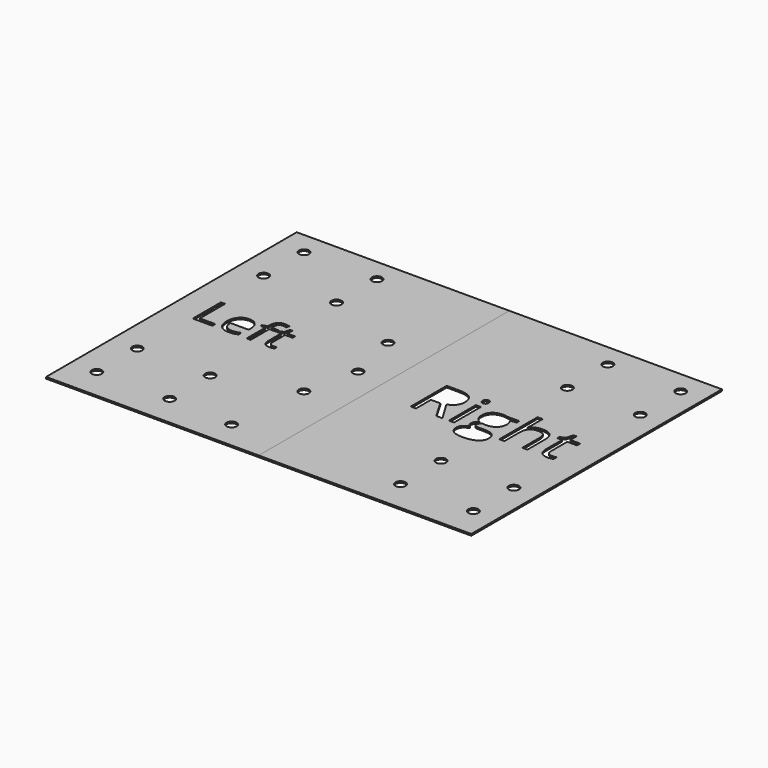
from build123d import *

# Parameters (mm, degrees)
F0_W     = 105
F0_H     = 154.7203554586
F0_R     = 2.5
F1_DEPTH = 0.8
F0_W_2   = 2.5208623119
F0_H_2   = 16.6357483977
F2_DEPTH = 0.8


with BuildPart() as f1:
    # F0 (on Top) → F1 (new body)
    with BuildSketch(Plane.XY):
        with Locations((36.2923571467, 88.2745388337)):
            Rectangle(F0_W, F0_H)
        with Locations((-3.5197703838, 26.3553077579)):
            Circle(F0_R, mode=Mode.SUBTRACT)
        with Locations((32.4802296162, 26.3553077579)):
            Circle(F0_R, mode=Mode.SUBTRACT)
        with Locations((64.4802296162, 24.5906881113)):
            Circle(F0_R, mode=Mode.SUBTRACT)
        with Locations((-3.5197703838, 51.3554970347)):
            Circle(F0_R, mode=Mode.SUBTRACT)
        with Locations((32.4802296162, 51.3554970347)):
            Circle(F0_R, mode=Mode.SUBTRACT)
        Polygon((7.2379707886, 84.2971429229), (-2.4455170755, 84.2971429229), (-2.4455170755, 101.6681111408), (-0.4266980508, 101.6681111408), (-0.4266980508, 86.1258659942), (7.2379707886, 86.1258659942), align=None, mode=Mode.SUBTRACT)
        with BuildLine():
            add(Edge.make_bspline(
                [(17.6400213564, 84.2553218131), (16.7085511849, 84.0576220216), (15.3892852686, 84.0576220216)],
                knots=[0, 0, 0, 1, 1, 1], degree=2))
            add(Edge.make_bspline(
                [(15.3892852686, 84.0576220216), (12.5036286966, 84.0576220216), (10.8326852666, 85.8179105497)],
                knots=[0, 0, 0, 1, 1, 1], degree=2))
            add(Edge.make_bspline(
                [(10.8326852666, 85.8179105497), (9.1617418366, 87.5781990779), (9.1617418366, 90.699574632)],
                knots=[0, 0, 0, 1, 1, 1], degree=2))
            add(Edge.make_bspline(
                [(9.1617418366, 90.699574632), (9.1617418366, 93.8513655387), (10.712924816, 95.7048010839)],
                knots=[0, 0, 0, 1, 1, 1], degree=2))
            add(Edge.make_bspline(
                [(10.712924816, 95.7048010839), (12.2641077954, 97.5582366292), (14.8798281136, 97.5582366292)],
                knots=[0, 0, 0, 1, 1, 1], degree=2))
            add(Edge.make_bspline(
                [(14.8798281136, 97.5582366292), (17.3244620738, 97.5582366292), (18.750181724, 95.9481239042)],
                knots=[0, 0, 0, 1, 1, 1], degree=2))
            add(Edge.make_bspline(
                [(18.750181724, 95.9481239042), (20.1759013742, 94.3380111793), (20.1759013742, 91.6994793467)],
                knots=[0, 0, 0, 1, 1, 1], degree=2))
            Line((20.1759013742, 91.6994793467), (20.1759013742, 90.4524498926))
            Line((20.1759013742, 90.4524498926), (11.2071742947, 90.4524498926))
            add(Edge.make_bspline(
                [(11.2071742947, 90.4524498926), (11.2680049998, 88.1598926951), (12.3667596102, 86.9717929866)],
                knots=[0, 0, 0, 1, 1, 1], degree=2))
            add(Edge.make_bspline(
                [(12.3667596102, 86.9717929866), (13.4655142206, 85.7836932781), (15.4615217309, 85.7836932781)],
                knots=[0, 0, 0, 1, 1, 1], degree=2))
            add(Edge.make_bspline(
                [(15.4615217309, 85.7836932781), (17.563982975, 85.7836932781), (19.6170192713, 86.6619365827)],
                knots=[0, 0, 0, 1, 1, 1], degree=2))
            Line((19.6170192713, 86.6619365827), (19.6170192713, 84.9016480546))
            add(Edge.make_bspline(
                [(19.6170192713, 84.9016480546), (18.5714915278, 84.4530216046), (17.6400213564, 84.2553218131)],
                knots=[0, 0, 0, 1, 1, 1], degree=2))
        make_face(mode=Mode.SUBTRACT)
        with BuildLine():
            Line((29.4107627884, 97.318715728), (29.4107627884, 95.7865423439))
            Line((29.4107627884, 95.7865423439), (26.0954893618, 95.7865423439))
            Line((26.0954893618, 95.7865423439), (26.0954893618, 84.2971429229))
            Line((26.0954893618, 84.2971429229), (24.1222933659, 84.2971429229))
            Line((24.1222933659, 84.2971429229), (24.1222933659, 95.7865423439))
            Line((24.1222933659, 95.7865423439), (21.7955188968, 95.7865423439))
            Line((21.7955188968, 95.7865423439), (21.7955188968, 96.6761914056))
            Line((21.7955188968, 96.6761914056), (24.1222933659, 97.3909521902))
            Line((24.1222933659, 97.3909521902), (24.1222933659, 98.113316813))
            add(Edge.make_bspline(
                [(24.1222933659, 98.113316813), (24.1222933659, 102.9151405948), (28.315810097, 102.9151405948)],
                knots=[0, 0, 0, 1, 1, 1], degree=2))
            add(Edge.make_bspline(
                [(28.315810097, 102.9151405948), (29.3499320833, 102.9151405948), (30.7414344619, 102.5007314165)],
                knots=[0, 0, 0, 1, 1, 1], degree=2))
            Line((30.7414344619, 102.5007314165), (30.2281753878, 100.9191330846))
            add(Edge.make_bspline(
                [(30.2281753878, 100.9191330846), (29.0875996676, 101.2879192341), (28.2815928254, 101.2879192341)],
                knots=[0, 0, 0, 1, 1, 1], degree=2))
            add(Edge.make_bspline(
                [(28.2815928254, 101.2879192341), (27.1638286197, 101.2879192341), (26.6296589907, 100.5446440565)],
                knots=[0, 0, 0, 1, 1, 1], degree=2))
            add(Edge.make_bspline(
                [(26.6296589907, 100.5446440565), (26.0954893618, 99.8013688788), (26.0954893618, 98.1627417609)],
                knots=[0, 0, 0, 1, 1, 1], degree=2))
            Line((26.0954893618, 98.1627417609), (26.0954893618, 97.318715728))
            Line((26.0954893618, 97.318715728), (29.4107627884, 97.318715728))
        make_face(mode=Mode.SUBTRACT)
        with BuildLine():
            add(Edge.make_bspline(
                [(34.4597113096, 86.3178629071), (35.0185934124, 85.6886453015), (35.9918846936, 85.6886453015)],
                knots=[0, 0, 0, 1, 1, 1], degree=2))
            add(Edge.make_bspline(
                [(35.9918846936, 85.6886453015), (36.5165495249, 85.6886453015), (37.0031951655, 85.7646836828)],
                knots=[0, 0, 0, 1, 1, 1], degree=2))
            add(Edge.make_bspline(
                [(37.0031951655, 85.7646836828), (37.4898408061, 85.8407220642), (37.7749847361, 85.9243642836)],
                knots=[0, 0, 0, 1, 1, 1], degree=2))
            Line((37.7749847361, 85.9243642836), (37.7749847361, 84.415002414))
            add(Edge.make_bspline(
                [(37.7749847361, 84.415002414), (37.4556235345, 84.2629256513), (36.8321088075, 84.1602738365)],
                knots=[0, 0, 0, 1, 1, 1], degree=2))
            add(Edge.make_bspline(
                [(36.8321088075, 84.1602738365), (36.2085940805, 84.0576220216), (35.7067407636, 84.0576220216)],
                knots=[0, 0, 0, 1, 1, 1], degree=2))
            add(Edge.make_bspline(
                [(35.7067407636, 84.0576220216), (31.9314351299, 84.0576220216), (31.9314351299, 88.038231285)],
                knots=[0, 0, 0, 1, 1, 1], degree=2))
            Line((31.9314351299, 88.038231285), (31.9314351299, 95.7865423439))
            Line((31.9314351299, 95.7865423439), (30.0646928679, 95.7865423439))
            Line((30.0646928679, 95.7865423439), (30.0646928679, 96.7370221107))
            Line((30.0646928679, 96.7370221107), (31.9314351299, 97.5582366292))
            Line((31.9314351299, 97.5582366292), (32.7602534865, 100.3374394673))
            Line((32.7602534865, 100.3374394673), (33.9008292067, 100.3374394673))
            Line((33.9008292067, 100.3374394673), (33.9008292067, 97.318715728))
            Line((33.9008292067, 97.318715728), (37.6799367595, 97.318715728))
            Line((37.6799367595, 97.318715728), (37.6799367595, 95.7865423439))
            Line((37.6799367595, 95.7865423439), (33.9008292067, 95.7865423439))
            Line((33.9008292067, 95.7865423439), (33.9008292067, 88.1218735045))
            add(Edge.make_bspline(
                [(33.9008292067, 88.1218735045), (33.9008292067, 86.9470805127), (34.4597113096, 86.3178629071)],
                knots=[0, 0, 0, 1, 1, 1], degree=2))
        make_face(mode=Mode.SUBTRACT)
        with Locations((-3.5197703838, 129.3560875784)):
            Circle(F0_R, mode=Mode.SUBTRACT)
        with Locations((32.4802296162, 129.3560875784)):
            Circle(F0_R, mode=Mode.SUBTRACT)
        with Locations((-3.5197703838, 154.3562768552)):
            Circle(F0_R, mode=Mode.SUBTRACT)
        with Locations((32.4802296162, 154.3562768552)):
            Circle(F0_R, mode=Mode.SUBTRACT)
        with Locations((68.9802296162, 63.5734725405)):
            Circle(F0_R, mode=Mode.SUBTRACT)
        with Locations((74.9802296162, 89.5503215981)):
            Circle(F0_R, mode=Mode.SUBTRACT)
        with Locations((68.9802296162, 115.5738662363)):
            Circle(F0_R, mode=Mode.SUBTRACT)
    extrude(amount=F1_DEPTH)


with BuildPart() as f2:
    # F0 (on Top) → F2 (new body)
    with BuildSketch(Plane.XY):
        with Locations((141.2923571467, 88.2745388337)):
            Rectangle(F0_W, F0_H)
        with Locations((146.4802296162, 26.3553077579)):
            Circle(F0_R, mode=Mode.SUBTRACT)
        with Locations((182.4802296162, 26.3553077579)):
            Circle(F0_R, mode=Mode.SUBTRACT)
        with BuildLine():
            Line((116.2916015164, 88.6632161564), (111.6578777292, 88.6632161564))
            Line((111.6578777292, 88.6632161564), (111.6578777292, 79.4346258044))
            Line((111.6578777292, 79.4346258044), (109.0787295834, 79.4346258044))
            Line((109.0787295834, 79.4346258044), (109.0787295834, 101.6269570246))
            Line((109.0787295834, 101.6269570246), (115.1647420629, 101.6269570246))
            add(Edge.make_bspline(
                [(115.1647420629, 101.6269570246), (119.2496075819, 101.6269570246), (121.1997544378, 100.0629538175)],
                knots=[0, 0, 0, 1, 1, 1], degree=2))
            add(Edge.make_bspline(
                [(121.1997544378, 100.0629538175), (123.1499012938, 98.4989506105), (123.1499012938, 95.356372738)],
                knots=[0, 0, 0, 1, 1, 1], degree=2))
            add(Edge.make_bspline(
                [(123.1499012938, 95.356372738), (123.1499012938, 90.955792286), (118.6861778551, 89.4063605374)],
                knots=[0, 0, 0, 1, 1, 1], degree=2))
            Line((118.6861778551, 89.4063605374), (124.7139045008, 79.4346258044))
            Line((124.7139045008, 79.4346258044), (121.6636125318, 79.4346258044))
            Line((121.6636125318, 79.4346258044), (116.2916015164, 88.6632161564))
        make_face(mode=Mode.SUBTRACT)
        with Locations((146.4802296162, 51.3554970347)):
            Circle(F0_R, mode=Mode.SUBTRACT)
        with Locations((182.4802296162, 51.3554970347)):
            Circle(F0_R, mode=Mode.SUBTRACT)
        with Locations((129.1751993631, 87.7525000033)):
            Rectangle(F0_W_2, F0_H_2, mode=Mode.SUBTRACT)
        with BuildLine():
            Line((143.642229028, 96.0703742021), (149.3930979632, 96.0703742021))
            Line((149.3930979632, 96.0703742021), (149.3930979632, 94.4772280782))
            Line((149.3930979632, 94.4772280782), (146.3136630773, 94.1129416169))
            add(Edge.make_bspline(
                [(146.3136630773, 94.1129416169), (146.7362353724, 93.5835119599), (147.0713789167, 92.7237959113)],
                knots=[0, 0, 0, 1, 1, 1], degree=2))
            add(Edge.make_bspline(
                [(147.0713789167, 92.7237959113), (147.4065224611, 91.8640798627), (147.4065224611, 90.7906490902)],
                knots=[0, 0, 0, 1, 1, 1], degree=2))
            add(Edge.make_bspline(
                [(147.4065224611, 90.7906490902), (147.4065224611, 88.3426440705), (145.7356618921, 86.8854982255)],
                knots=[0, 0, 0, 1, 1, 1], degree=2))
            add(Edge.make_bspline(
                [(145.7356618921, 86.8854982255), (144.0648013231, 85.4283523804), (141.150509633, 85.4283523804)],
                knots=[0, 0, 0, 1, 1, 1], degree=2))
            add(Edge.make_bspline(
                [(141.150509633, 85.4283523804), (140.407365252, 85.4283523804), (139.7565067746, 85.5497812008)],
                knots=[0, 0, 0, 1, 1, 1], degree=2))
            add(Edge.make_bspline(
                [(139.7565067746, 85.5497812008), (138.1487891922, 84.6997794579), (138.1487891922, 83.4126339614)],
                knots=[0, 0, 0, 1, 1, 1], degree=2))
            add(Edge.make_bspline(
                [(138.1487891922, 83.4126339614), (138.1487891922, 82.7277754142), (138.7097903425, 82.4023461755)],
                knots=[0, 0, 0, 1, 1, 1], degree=2))
            add(Edge.make_bspline(
                [(138.7097903425, 82.4023461755), (139.2707914929, 82.0769169368), (140.6356514344, 82.0769169368)],
                knots=[0, 0, 0, 1, 1, 1], degree=2))
            Line((140.6356514344, 82.0769169368), (143.5790860414, 82.0769169368))
            add(Edge.make_bspline(
                [(143.5790860414, 82.0769169368), (146.2845201604, 82.0769169368), (147.7319516998, 80.9379146012)],
                knots=[0, 0, 0, 1, 1, 1], degree=2))
            add(Edge.make_bspline(
                [(147.7319516998, 80.9379146012), (149.1793832392, 79.7989122657), (149.1793832392, 77.6277649566)],
                knots=[0, 0, 0, 1, 1, 1], degree=2))
            add(Edge.make_bspline(
                [(149.1793832392, 77.6277649566), (149.1793832392, 74.8640450038), (146.9645215548, 73.414184888)],
                knots=[0, 0, 0, 1, 1, 1], degree=2))
            add(Edge.make_bspline(
                [(146.9645215548, 73.414184888), (144.7496598703, 71.9643247721), (140.4996511556, 71.9643247721)],
                knots=[0, 0, 0, 1, 1, 1], degree=2))
            add(Edge.make_bspline(
                [(140.4996511556, 71.9643247721), (137.2356444626, 71.9643247721), (135.4676408373, 73.1786129763)],
                knots=[0, 0, 0, 1, 1, 1], degree=2))
            add(Edge.make_bspline(
                [(135.4676408373, 73.1786129763), (133.699637212, 74.3929011805), (133.699637212, 76.6126200178)],
                knots=[0, 0, 0, 1, 1, 1], degree=2))
            add(Edge.make_bspline(
                [(133.699637212, 76.6126200178), (133.699637212, 78.1280516967), (134.6710677753, 79.2379111153)],
                knots=[0, 0, 0, 1, 1, 1], degree=2))
            add(Edge.make_bspline(
                [(134.6710677753, 79.2379111153), (135.6424983387, 80.347770534), (137.4007876584, 80.7411999122)],
                knots=[0, 0, 0, 1, 1, 1], degree=2))
            add(Edge.make_bspline(
                [(137.4007876584, 80.7411999122), (136.7645006394, 81.0277719283), (136.3322140387, 81.6349160305)],
                knots=[0, 0, 0, 1, 1, 1], degree=2))
            add(Edge.make_bspline(
                [(136.3322140387, 81.6349160305), (135.899927438, 82.2420601326), (135.899927438, 83.0483475002)],
                knots=[0, 0, 0, 1, 1, 1], degree=2))
            add(Edge.make_bspline(
                [(135.899927438, 83.0483475002), (135.899927438, 83.9566350769), (136.3856427197, 84.6414936241)],
                knots=[0, 0, 0, 1, 1, 1], degree=2))
            add(Edge.make_bspline(
                [(136.3856427197, 84.6414936241), (136.8713580014, 85.3263521713), (137.9205030098, 85.9626391903)],
                knots=[0, 0, 0, 1, 1, 1], degree=2))
            add(Edge.make_bspline(
                [(137.9205030098, 85.9626391903), (136.6285003605, 86.4920688473), (135.8173558401, 87.7670714617)],
                knots=[0, 0, 0, 1, 1, 1], degree=2))
            add(Edge.make_bspline(
                [(135.8173558401, 87.7670714617), (135.0062113197, 89.0420740761), (135.0062113197, 90.6837917282)],
                knots=[0, 0, 0, 1, 1, 1], degree=2))
            add(Edge.make_bspline(
                [(135.0062113197, 90.6837917282), (135.0062113197, 93.4135116113), (136.6455003954, 94.8949432204)],
                knots=[0, 0, 0, 1, 1, 1], degree=2))
            add(Edge.make_bspline(
                [(136.6455003954, 94.8949432204), (138.2847894711, 96.3763748296), (141.2865099119, 96.3763748296)],
                knots=[0, 0, 0, 1, 1, 1], degree=2))
            add(Edge.make_bspline(
                [(141.2865099119, 96.3763748296), (142.5930840196, 96.3763748296), (143.642229028, 96.0703742021)],
                knots=[0, 0, 0, 1, 1, 1], degree=2))
        make_face(mode=Mode.SUBTRACT)
        with BuildLine():
            add(Edge.make_bspline(
                [(128.1260543547, 99.3100951309), (127.7010534832, 99.7278102732), (127.7010534832, 100.5778120161)],
                knots=[0, 0, 0, 1, 1, 1], degree=2))
            add(Edge.make_bspline(
                [(127.7010534832, 100.5778120161), (127.7010534832, 101.4423852175), (128.1260543547, 101.8455289013)],
                knots=[0, 0, 0, 1, 1, 1], degree=2))
            add(Edge.make_bspline(
                [(128.1260543547, 101.8455289013), (128.5510552261, 102.2486725851), (129.1921993979, 102.2486725851)],
                knots=[0, 0, 0, 1, 1, 1], degree=2))
            add(Edge.make_bspline(
                [(129.1921993979, 102.2486725851), (129.7993435001, 102.2486725851), (130.23891583, 101.8382431721)],
                knots=[0, 0, 0, 1, 1, 1], degree=2))
            add(Edge.make_bspline(
                [(130.23891583, 101.8382431721), (130.6784881599, 101.4278137591), (130.6784881599, 100.5778120161)],
                knots=[0, 0, 0, 1, 1, 1], degree=2))
            add(Edge.make_bspline(
                [(130.6784881599, 100.5778120161), (130.6784881599, 99.7278102732), (130.23891583, 99.3100951309)],
                knots=[0, 0, 0, 1, 1, 1], degree=2))
            add(Edge.make_bspline(
                [(130.23891583, 99.3100951309), (129.7993435001, 98.8923799887), (129.1921993979, 98.8923799887)],
                knots=[0, 0, 0, 1, 1, 1], degree=2))
            add(Edge.make_bspline(
                [(129.1921993979, 98.8923799887), (128.5510552261, 98.8923799887), (128.1260543547, 99.3100951309)],
                knots=[0, 0, 0, 1, 1, 1], degree=2))
        make_face(mode=Mode.SUBTRACT)
        with BuildLine():
            Line((166.713704908, 79.4346258044), (164.1928425961, 79.4346258044))
            Line((164.1928425961, 79.4346258044), (164.1928425961, 90.1980764465))
            add(Edge.make_bspline(
                [(164.1928425961, 90.1980764465), (164.1928425961, 92.228366324), (163.2675549845, 93.2313683807)],
                knots=[0, 0, 0, 1, 1, 1], degree=2))
            add(Edge.make_bspline(
                [(163.2675549845, 93.2313683807), (162.3422673729, 94.2343704373), (160.3654061764, 94.2343704373)],
                knots=[0, 0, 0, 1, 1, 1], degree=2))
            add(Edge.make_bspline(
                [(160.3654061764, 94.2343704373), (157.7425436553, 94.2343704373), (156.5355411803, 92.8063675092)],
                knots=[0, 0, 0, 1, 1, 1], degree=2))
            add(Edge.make_bspline(
                [(156.5355411803, 92.8063675092), (155.3285387054, 91.378364581), (155.3285387054, 88.1337864994)],
                knots=[0, 0, 0, 1, 1, 1], degree=2))
            Line((155.3285387054, 88.1337864994), (155.3285387054, 79.4346258044))
            Line((155.3285387054, 79.4346258044), (152.8076763934, 79.4346258044))
            Line((152.8076763934, 79.4346258044), (152.8076763934, 103.0549599527))
            Line((152.8076763934, 103.0549599527), (155.3285387054, 103.0549599527))
            Line((155.3285387054, 103.0549599527), (155.3285387054, 95.9052310063))
            add(Edge.make_bspline(
                [(155.3285387054, 95.9052310063), (155.3285387054, 94.613228357), (155.2071098849, 93.7632266141)],
                knots=[0, 0, 0, 1, 1, 1], degree=2))
            Line((155.2071098849, 93.7632266141), (155.3576816223, 93.7632266141))
            add(Edge.make_bspline(
                [(155.3576816223, 93.7632266141), (156.1008260032, 94.9629433599), (157.4754002504, 95.6526590599)],
                knots=[0, 0, 0, 1, 1, 1], degree=2))
            add(Edge.make_bspline(
                [(157.4754002504, 95.6526590599), (158.8499744976, 96.3423747598), (160.6082638173, 96.3423747598)],
                knots=[0, 0, 0, 1, 1, 1], degree=2))
            add(Edge.make_bspline(
                [(160.6082638173, 96.3423747598), (163.6585557862, 96.3423747598), (165.1861303471, 94.892514644)],
                knots=[0, 0, 0, 1, 1, 1], degree=2))
            add(Edge.make_bspline(
                [(165.1861303471, 94.892514644), (166.713704908, 93.4426545282), (166.713704908, 90.2855051972)],
                knots=[0, 0, 0, 1, 1, 1], degree=2))
            Line((166.713704908, 90.2855051972), (166.713704908, 79.4346258044))
        make_face(mode=Mode.SUBTRACT)
        with BuildLine():
            add(Edge.make_bspline(
                [(175.3011510882, 82.0162025266), (176.0151525523, 81.2123437354), (177.2585836734, 81.2123437354)],
                knots=[0, 0, 0, 1, 1, 1], degree=2))
            add(Edge.make_bspline(
                [(177.2585836734, 81.2123437354), (177.9288707621, 81.2123437354), (178.5505863227, 81.3094867917)],
                knots=[0, 0, 0, 1, 1, 1], degree=2))
            add(Edge.make_bspline(
                [(178.5505863227, 81.3094867917), (179.1723018832, 81.4066298481), (179.5365883445, 81.51348721)],
                knots=[0, 0, 0, 1, 1, 1], degree=2))
            Line((179.5365883445, 81.51348721), (179.5365883445, 79.5851975417))
            add(Edge.make_bspline(
                [(179.5365883445, 79.5851975417), (179.1285875079, 79.3909114291), (178.3320144459, 79.259768303)],
                knots=[0, 0, 0, 1, 1, 1], degree=2))
            add(Edge.make_bspline(
                [(178.3320144459, 79.259768303), (177.535441384, 79.128625177), (176.8942972121, 79.128625177)],
                knots=[0, 0, 0, 1, 1, 1], degree=2))
            add(Edge.make_bspline(
                [(176.8942972121, 79.128625177), (172.071144465, 79.128625177), (172.071144465, 84.2140641762)],
                knots=[0, 0, 0, 1, 1, 1], degree=2))
            Line((172.071144465, 84.2140641762), (172.071144465, 94.1129416169))
            Line((172.071144465, 94.1129416169), (169.6862824319, 94.1129416169))
            Line((169.6862824319, 94.1129416169), (169.6862824319, 95.3272298211))
            Line((169.6862824319, 95.3272298211), (172.071144465, 96.3763748296))
            Line((172.071144465, 96.3763748296), (173.1300037791, 99.9269535387))
            Line((173.1300037791, 99.9269535387), (174.5871496241, 99.9269535387))
            Line((174.5871496241, 99.9269535387), (174.5871496241, 96.0703742021))
            Line((174.5871496241, 96.0703742021), (179.4151595241, 96.0703742021))
            Line((179.4151595241, 96.0703742021), (179.4151595241, 94.1129416169))
            Line((179.4151595241, 94.1129416169), (174.5871496241, 94.1129416169))
            Line((174.5871496241, 94.1129416169), (174.5871496241, 84.3209215382))
            add(Edge.make_bspline(
                [(174.5871496241, 84.3209215382), (174.5871496241, 82.8200613178), (175.3011510882, 82.0162025266)],
                knots=[0, 0, 0, 1, 1, 1], degree=2))
        make_face(mode=Mode.SUBTRACT)
        with Locations((146.4802296162, 129.3560875784)):
            Circle(F0_R, mode=Mode.SUBTRACT)
        with Locations((182.4802296162, 129.3560875784)):
            Circle(F0_R, mode=Mode.SUBTRACT)
        with Locations((146.4802296162, 154.3562768552)):
            Circle(F0_R, mode=Mode.SUBTRACT)
        with Locations((182.4802296162, 154.3562768552)):
            Circle(F0_R, mode=Mode.SUBTRACT)
    extrude(amount=F2_DEPTH)


solid = Compound([f1.part, f2.part])
